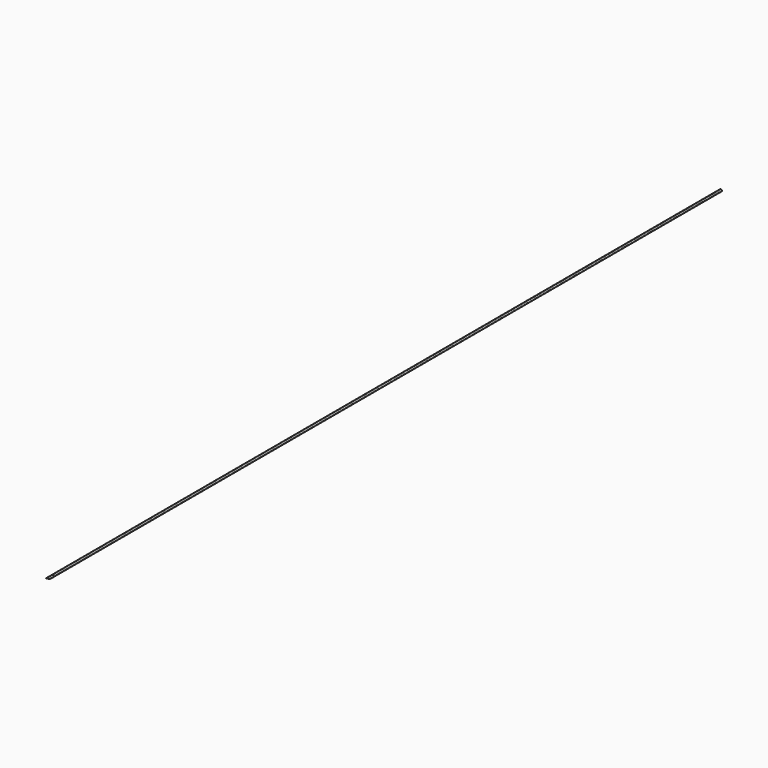
from build123d import *

# Parameters (mm, degrees)
F0_R     = 0.2
F1_DEPTH = 248
F3_W     = 2.602176
F3_H     = 3.299261
F4_DEPTH = 25
F5_R     = 0.15
F6_DEPTH = 25


with BuildPart() as f1:
    # F0 (on Front) → F1 (new body)
    with BuildSketch(Plane.XZ):
        with BuildLine():
            ThreePointArc((0, 0.32), (-0.226274, -0.226274), (0.32, 0))
            ThreePointArc((0.32, 0), (0.226274, 0.226274), (0, 0.32))
        make_face()
        Circle(F0_R, mode=Mode.SUBTRACT)
    extrude(amount=-F1_DEPTH)

    # F3 (on face) → F4 (cut)
    with BuildSketch(Plane(origin=(0, 0.122567, 0.262846), x_dir=(1, 0, 0), z_dir=(0, -0.422618, -0.906308))):
        with Locations((-0.016375, -0.548971)):
            Rectangle(F3_W, F3_H)
    extrude(amount=F4_DEPTH, mode=Mode.SUBTRACT)

    # F5 (on Top) → F6 (cut)
    with BuildSketch(Plane.XY):
        with Locations((0, 2.37)):
            Circle(F5_R)
    extrude(amount=F6_DEPTH, mode=Mode.SUBTRACT)


solid = f1.part
